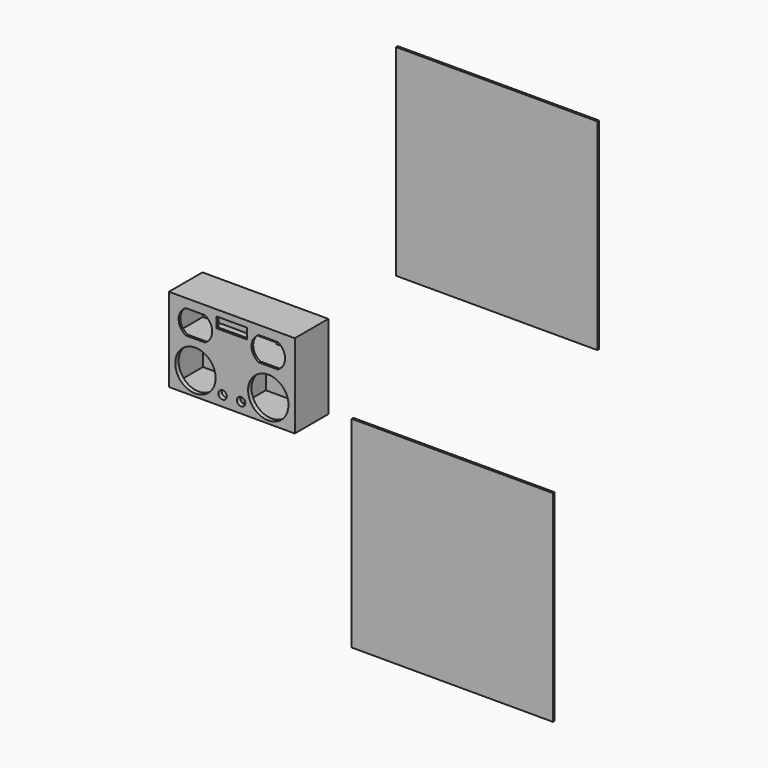
from build123d import *

# Parameters (mm, degrees)
F0_W      = 762
F0_H      = 508
F1_DEPTH  = 12.7
F2_W      = 762
F2_H      = 508
F2_W_2    = 355.6
F2_H_2    = 254
F2_W_3    = 736.6
F2_H_3    = 215.9
F3_DEPTH  = 228.6
F4_W      = 355.6
F4_H      = 254
F5_DEPTH  = 12.7
F6_DEPTH  = 12.7
F7_R      = 122.2375
F8_DEPTH  = 25.4
F9_R      = 25.4
F10_DEPTH = 25.4
F12_DEPTH = 25.4
F14_DEPTH = 12.7
F15_W     = 12.7
F15_H     = 508
F16_DEPTH = 762
F18_DEPTH = 12.7
F19_W     = 1219.2
F19_H     = 1219.2
F20_DEPTH = 12.7
F21_W     = 1219.2
F21_H     = 1219.2
F22_DEPTH = 12.7


with BuildPart() as f1:
    # F0 (on Front) → F1 (new body)
    with BuildSketch(Plane.XZ):
        Rectangle(F0_W, F0_H)
    extrude(amount=-F1_DEPTH)

    # F2 (on face) → F3 (join)
    with BuildSketch(Plane(origin=(0, 12.7, 0), x_dir=(-1, 0, 0), z_dir=(0, 1, 0))):
        Rectangle(F2_W, F2_H)
        with Locations((-190.5, -114.3)):
            Rectangle(F2_W_2, F2_H_2, mode=Mode.SUBTRACT)
        with Locations((190.5, -114.3)):
            Rectangle(F2_W_2, F2_H_2, mode=Mode.SUBTRACT)
        with Locations((0, 133.35)):
            Rectangle(F2_W_3, F2_H_3, mode=Mode.SUBTRACT)
    extrude(amount=F3_DEPTH)

    # F4 (on face) → F5 (join)
    with BuildSketch(Plane(origin=(0, 12.7, 0), x_dir=(-1, 0, 0), z_dir=(0, 1, 0))):
        with Locations((-190.5, -114.3)):
            Rectangle(F4_W, F4_H)
    extrude(amount=F5_DEPTH)

    # F6 (add): a face of the model
    f6_faces = [f1.faces().sort_by_distance(p)[0] for p in [
        (-190.5, 12.7, -114.3),
    ]]
    extrude(f6_faces, amount=F6_DEPTH)

    # F7 (on face) → F8 (cut)
    with BuildSketch(Plane.XZ):
        with Locations((-220.6625, -114.3)):
            Circle(F7_R)
        with Locations((220.6625, -114.3)):
            Circle(F7_R)
    extrude(amount=-F8_DEPTH, mode=Mode.SUBTRACT)

    # F9 (on face) → F10 (cut)
    with BuildSketch(Plane.XZ):
        with Locations((-56.0324, -190.1825)):
            Circle(F9_R)
        with Locations((56.0324, -190.1825)):
            Circle(F9_R)
    extrude(amount=-F10_DEPTH, mode=Mode.SUBTRACT)

    # F11 (on face) → F12 (cut)
    with BuildSketch(Plane.XZ):
        Polygon((92.075, 216.3353095055), (0, 216.3353095055), (-92.075, 216.3353095055), (-92.075, 152.8353095055), (0, 152.8353095055), (92.075, 152.8353095055), align=None)
    extrude(amount=-F12_DEPTH, mode=Mode.SUBTRACT)

    # F13 (on face) → F14 (cut)
    with BuildSketch(Plane.XZ):
        with BuildLine():
            Line((-277.8252, 53.975), (-220.6752, 53.975))
            Line((-220.6752, 53.975), (-163.5252, 53.975))
            ThreePointArc((-163.5252, 53.975), (-119.0705820918, 127), (-163.5252, 200.025))
            Line((-163.5252, 200.025), (-220.6752, 200.025))
            Line((-220.6752, 200.025), (-277.8252, 200.025))
            ThreePointArc((-277.8252, 200.025), (-322.2798179082, 127), (-277.8252, 53.975))
        make_face()
        with BuildLine():
            ThreePointArc((163.5252, 200.025), (119.0705820918, 127), (163.5252, 53.975))
            Line((163.5252, 53.975), (220.6752, 53.975))
            Line((220.6752, 53.975), (277.8252, 53.975))
            ThreePointArc((277.8252, 53.975), (322.2798179082, 127), (277.8252, 200.025))
            Line((277.8252, 200.025), (220.6752, 200.025))
            Line((220.6752, 200.025), (163.5252, 200.025))
        make_face()
    extrude(amount=-F14_DEPTH, mode=Mode.SUBTRACT)

    # F15 (on face) → F16 (join)
    with BuildSketch(Plane(origin=(-381, 0, 0), x_dir=(0, -1, 0), z_dir=(-1, 0, 0))):
        with Locations((-247.65, 0)):
            Rectangle(F15_W, F15_H)
    extrude(amount=-F16_DEPTH)

    # F17 (on face) → F18 (cut)
    with BuildSketch(Plane.XZ.offset(-241.3)):
        Polygon((-76.2, 25.4), (0, 25.4), (76.2, 25.4), (76.2, 69.85), (76.2, 114.3), (-76.2, 114.3), (-76.2, 69.85), align=None)
    extrude(amount=-F18_DEPTH, mode=Mode.SUBTRACT)


with BuildPart() as f20:
    # F19 (on face) → F20 (new body)
    with BuildSketch(Plane.XZ):
        with Locations((1345.2215790749, -664.6697623745)):
            Rectangle(F19_W, F19_H)
    extrude(amount=F20_DEPTH)


with BuildPart() as f22:
    # F21 (on face) → F22 (new body)
    with BuildSketch(Plane.XZ.offset(12.7)):
        with Locations((1624.0296065807, 1412.6862236522)):
            Rectangle(F21_W, F21_H)
    extrude(amount=F22_DEPTH)


solid = Compound([f1.part, f20.part, f22.part])
